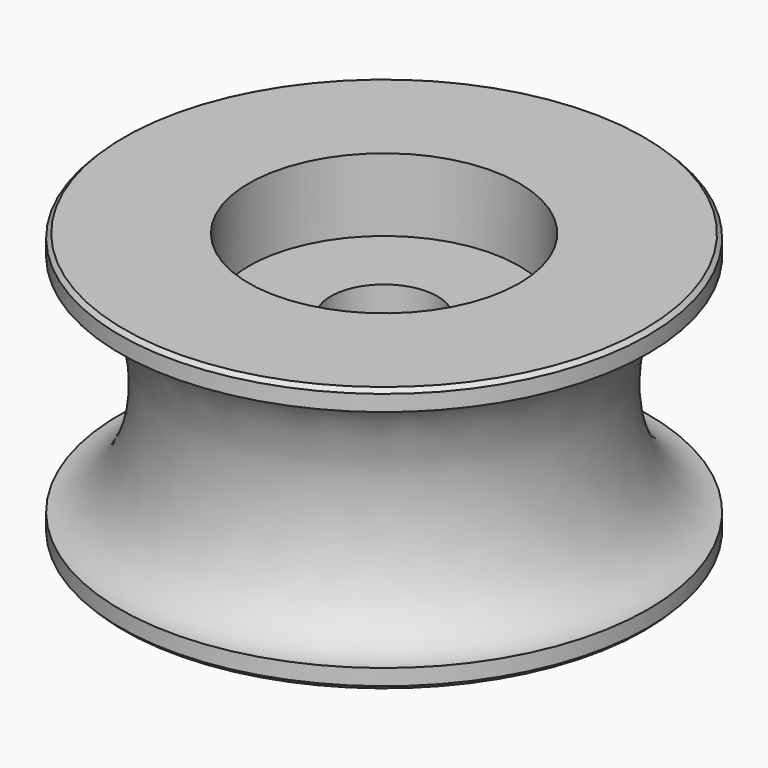
from build123d import *

# Parameters (mm, degrees)
F2_SIZE = 0.3


with BuildPart() as f1:
    # F0 (on Front) → F1 (revolve)
    with BuildSketch(Plane.XZ):
        with BuildLine():
            Line((19.8, 9.95), (10.15, 9.95))
            Line((10.15, 9.95), (10.15, 4.4908430427))
            Line((10.15, 4.4908430427), (4, 4.4908430427))
            Line((4, 4.4908430427), (4, -4.4908430427))
            Line((4, -4.4908430427), (10.15, -4.4908430427))
            Line((10.15, -4.4908430427), (10.15, -9.95))
            Line((10.15, -9.95), (19.8, -9.95))
            Line((19.8, -9.95), (19.8, -8.45))
            add(Edge.make_bspline(
                [(14.95, 0), (14.95, -8.45), (19.8, -8.45)],
                knots=[4.7123889804, 4.7123889804, 4.7123889804, 6.2831853072, 6.2831853072, 6.2831853072], degree=2, weights=[1, 0.7071067812, 1]))
            add(Edge.make_bspline(
                [(19.8, 8.45), (14.95, 8.45), (14.95, 0)],
                knots=[0, 0, 0, 1.5707963268, 1.5707963268, 1.5707963268], degree=2, weights=[1, 0.7071067812, 1]))
            Line((19.8, 8.45), (19.8, 9.95))
        make_face()
    revolve(axis=Axis((0, 0, 2.2454215214), (0, 0, 1)))

    # F2
    f2_edges = [f1.edges().sort_by_distance(p)[0] for p in [
        (-19.8, 0, 9.95),
        (-19.8, 0, -9.95),
    ]]
    chamfer(f2_edges, length=F2_SIZE)


solid = f1.part
